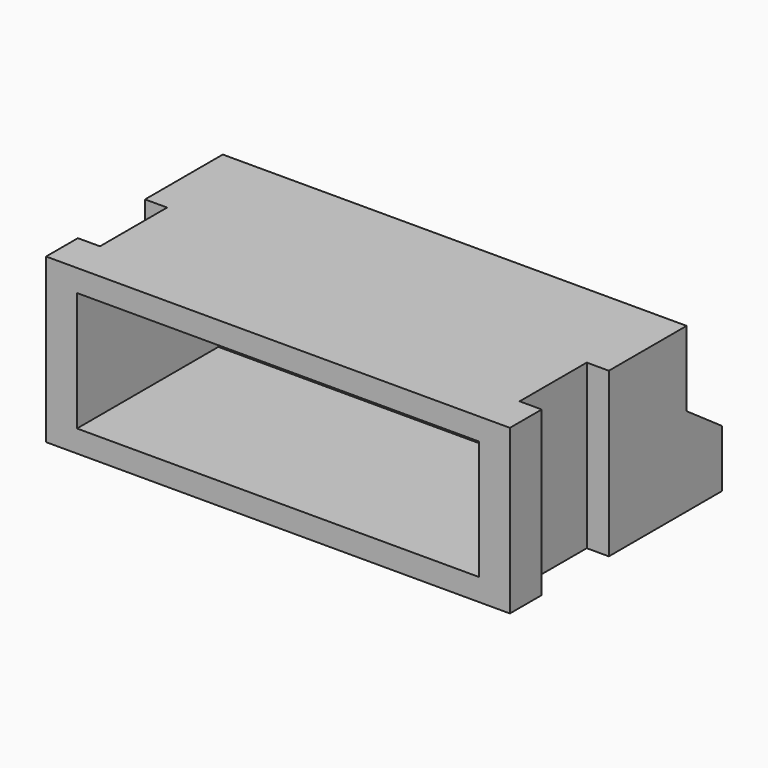
from build123d import *

# Parameters (mm, degrees)
SKETCH_W            = 10.5
SKETCH_H            = 6
PAD_DEPTH           = 3.7
SKETCH001_W         = 0.25
SKETCH001_H         = 0.5
PAD001_DEPTH        = 0.2
LINEARPATTERN_COUNT = 5
LINEARPATTERN_PITCH = 1.5
POCKET_DEPTH        = 5.251
POCKET_DEPTH_BACK   = -5.251
SKETCH003_W         = 0.5
SKETCH003_H         = 1.9
POCKET001_DEPTH     = 29.48394
SKETCH004_W         = 9.1
SKETCH004_H         = 2.7
POCKET002_DEPTH     = 4


with BuildPart() as part:
    # Sketch → Pad (new body)
    with BuildSketch(Plane.XY):
        with Locations((0, -0.9)):
            Rectangle(SKETCH_W, SKETCH_H)
    extrude(amount=PAD_DEPTH)

    # Sketch001 → Pad001 (join)
    with BuildSketch(Plane.XY):
        with Locations((-3, 2.35)):
            Rectangle(SKETCH001_W, SKETCH001_H)
    pad001 = extrude(amount=PAD001_DEPTH)

    # LinearPattern: Pad001 ×5
    with Locations(*[(i * LINEARPATTERN_PITCH, 0, 0) for i in range(1, LINEARPATTERN_COUNT)]):
        add(pad001)

    # Sketch002 → Pocket (cut, two sides)
    with BuildSketch(Plane.YZ) as pocket_sk:
        Polygon((1.1, 3.7), (2.1, 3.7), (2.1, 1.3), (1.1, 2), align=None)
    extrude(amount=-POCKET_DEPTH, mode=Mode.SUBTRACT)
    extrude(pocket_sk.sketch, amount=-POCKET_DEPTH_BACK, mode=Mode.SUBTRACT)

    # Sketch003 → Pocket001 (cut, through all)
    with BuildSketch(Plane.XY):
        with Locations((-5, -2.05)):
            Rectangle(SKETCH003_W, SKETCH003_H)
    pocket001 = extrude(amount=POCKET001_DEPTH, mode=Mode.SUBTRACT)

    # Mirrored: Pocket001 across YZ
    add(pocket001.mirror(Plane.YZ), mode=Mode.SUBTRACT)

    # Sketch004 (on Face18 of Mirrored) → Pocket002 (cut)
    with BuildSketch(Plane.XZ.offset(3.9)):
        with Locations((0, 1.85)):
            Rectangle(SKETCH004_W, SKETCH004_H)
    extrude(amount=-POCKET002_DEPTH, mode=Mode.SUBTRACT)


solid = part.part
